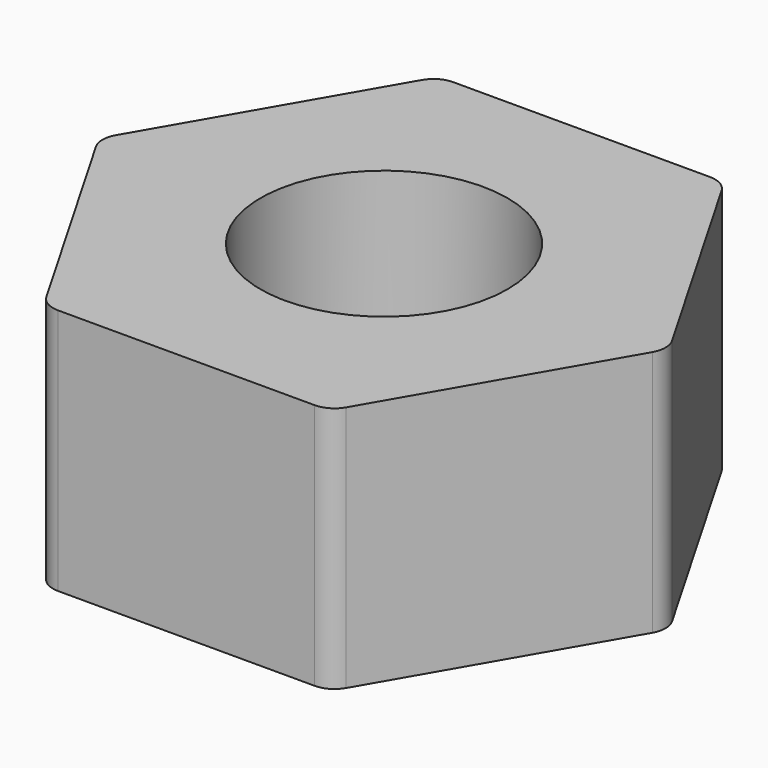
from build123d import *

# Parameters (mm, degrees)
F0_R     = 6.35
F1_DEPTH = 12.7
F2_R     = 1.27


with BuildPart() as f1:
    # F0 (on Top) → F1 (new body)
    with BuildSketch(Plane.XY):
        Polygon((7.332348, 12.7), (-7.332348, 12.7), (-14.664697, 0), (-7.332348, -12.7), (7.332348, -12.7), (14.664697, 0), align=None)
        Circle(F0_R, mode=Mode.SUBTRACT)
    extrude(amount=F1_DEPTH)

    # F2
    f2_edges = [f1.edges().sort_by_distance(p)[0] for p in [
        (-14.664697, 0, 6.35),
        (-7.332348, 12.7, 6.35),
        (7.332348, 12.7, 6.35),
        (14.664697, 0, 6.35),
        (7.332348, -12.7, 6.35),
        (-7.332348, -12.7, 6.35),
    ]]
    fillet(f2_edges, radius=F2_R)


solid = f1.part
